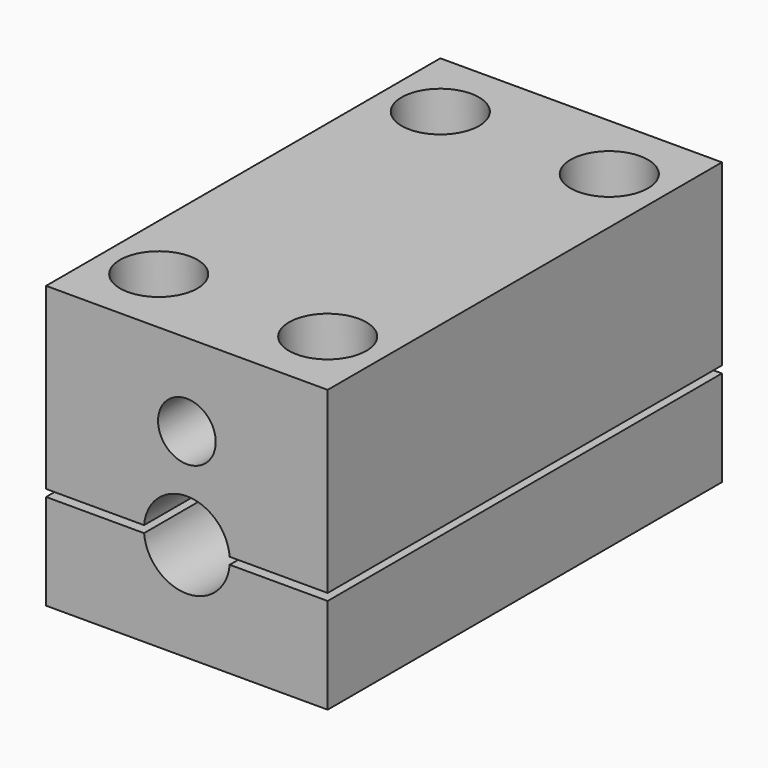
from build123d import *

# Parameters (mm, degrees)
F0_R             = 2.05
F1_DEPTH         = 35
F2_DEPTH         = 32
F4_D             = 3.1
F4_DEPTH         = 18.8
F4_CBORE_D       = 5.5
F4_CBORE_DEPTH   = 2.9
F4_TIP           = 0.9313339595
F4_2_D           = 3.1
F4_2_DEPTH       = 18.8
F4_2_CBORE_D     = 5.5
F4_2_CBORE_DEPTH = 2.9
F4_2_TIP         = 0.9313339595


with BuildPart() as f1:
    # F0 (on Front) → F1 (new body)
    with BuildSketch(Plane.XZ):
        with BuildLine():
            Line((10, -2.7), (10, 10))
            Line((10, 10), (-10, 10))
            Line((-10, 10), (-10, -2.7))
            Line((-10, -2.7), (-3.0397368307, -2.7))
            ThreePointArc((-3.0397368307, -2.7), (0, 0.1), (3.0397368307, -2.7))
            Line((3.0397368307, -2.7), (10, -2.7))
        make_face()
        with Locations((0, 4.15)):
            Circle(F0_R, mode=Mode.SUBTRACT)
        with Locations((0, 4.15)):
            Circle(F0_R)
    extrude(amount=-F1_DEPTH)

    # F0 (on Front) → F2 (cut)
    with BuildSketch(Plane.XZ):
        with Locations((0, 4.15)):
            Circle(F0_R)
    extrude(amount=-F2_DEPTH, mode=Mode.SUBTRACT)

    # F4
    with Locations(Plane.XY.offset(10)):
        with Locations((-6, 30), (6, 30), (-6, 5), (6, 5)):
            CounterBoreHole(F4_D / 2, F4_CBORE_D / 2, F4_CBORE_DEPTH, depth=F4_DEPTH)
            with Locations((0, 0, -(F4_DEPTH + F4_TIP / 2))):  # 118° drill point
                Cone(0, F4_D / 2, F4_TIP, mode=Mode.SUBTRACT)


with BuildPart() as f1b:
    # F0 (on Front) → F1, piece 2 (new body)
    with BuildSketch(Plane.XZ):
        with BuildLine():
            Line((10, -10), (10, -3.2))
            Line((10, -3.2), (3.0397368307, -3.2))
            ThreePointArc((3.0397368307, -3.2), (0, -6), (-3.0397368307, -3.2))
            Line((-3.0397368307, -3.2), (-10, -3.2))
            Line((-10, -3.2), (-10, -10))
            Line((-10, -10), (10, -10))
        make_face()
    extrude(amount=-F1_DEPTH)

    # F4#2
    with Locations(Plane.XY.offset(10)):
        with Locations((-6, 30), (6, 30), (-6, 5), (6, 5)):
            CounterBoreHole(F4_2_D / 2, F4_2_CBORE_D / 2, F4_2_CBORE_DEPTH, depth=F4_2_DEPTH)
            with Locations((0, 0, -(F4_2_DEPTH + F4_2_TIP / 2))):  # 118° drill point
                Cone(0, F4_2_D / 2, F4_2_TIP, mode=Mode.SUBTRACT)


solid = Compound([f1.part, f1b.part])
